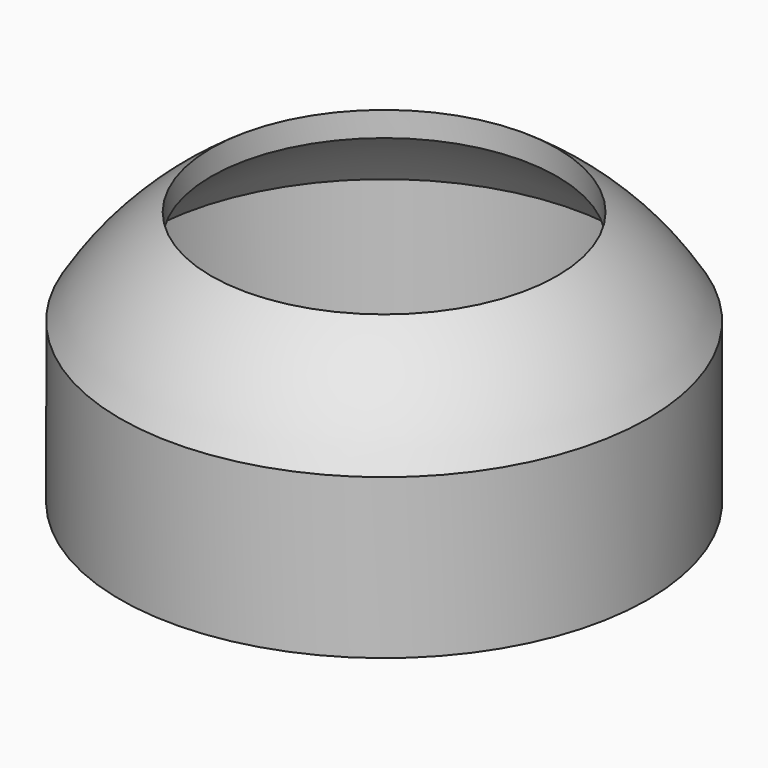
from build123d import *

# Parameters (mm, degrees)
SKETCH_R   = 23.2
SKETCH_R_2 = 21.1
PAD_DEPTH  = 14


with BuildPart() as body001:
    # Sketch001 → Revolution (revolve)
    with BuildSketch(Plane.XZ):
        with BuildLine():
            ThreePointArc((-15.2, 20.252654), (-18.417286, 17.378538), (-21.1, 14))
            Line((-21.1, 14), (-23.2, 14))
            ThreePointArc((-15.2, 22.43212), (-19.657445, 18.650063), (-23.2, 14))
            Line((-15.2, 20.252654), (-15.2, 22.43212))
        make_face()
    revolve(axis=Axis((0, 0, 0), (0, 0, 1)))


with BuildPart() as body:
    # Sketch → Pad (new body)
    with BuildSketch(Plane.XY):
        Circle(SKETCH_R)
        Circle(SKETCH_R_2, mode=Mode.SUBTRACT)
    extrude(amount=PAD_DEPTH)

    # Boolean: union Body001
    add(body001.part)


solid = body.part
